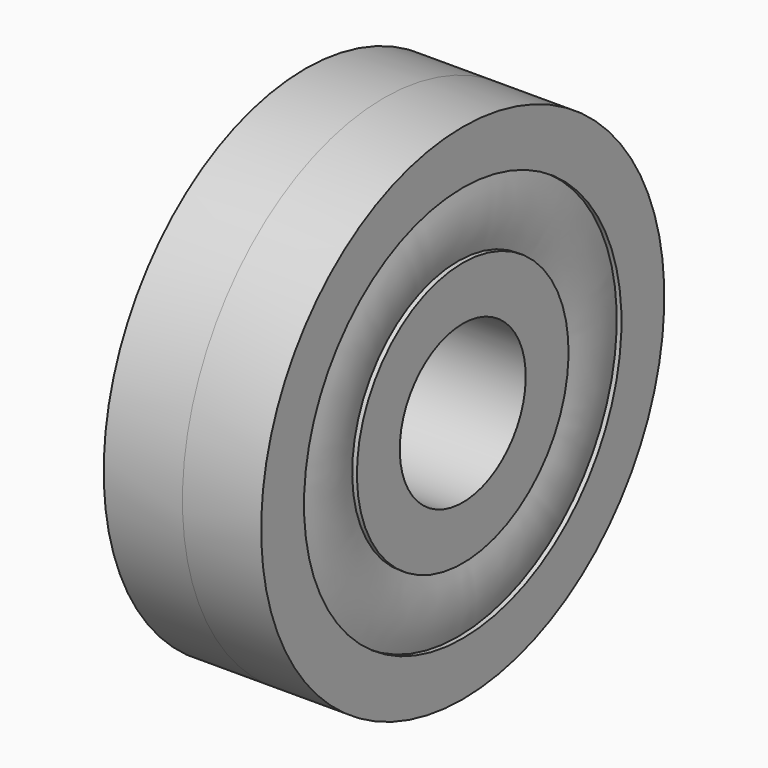
from build123d import *


with BuildPart() as f1:
    # F0 (on Front) → F1 (revolve)
    with BuildSketch(Plane.XZ):
        with BuildLine():
            Line((-2.5, 2.5), (0, 2.5))
            Line((0, 2.5), (0, 8))
            Line((0, 8), (-2.5, 8))
            Line((-2.5, 8), (-2.5, 6.3))
            Line((-2.5, 6.3), (-2.35, 6.3))
            ThreePointArc((-2.35, 6.3), (-2.5, 5.25), (-2.35, 4.2))
            Line((-2.35, 4.2), (-2.5, 4.2))
            Line((-2.5, 4.2), (-2.5, 2.5))
        make_face()
    revolve(axis=Axis((4.185853, 0, 0), (1, 0, 0)))

    # F2: F1 across plane


with BuildPart() as f1_1:
    add(f1.part)
    add(f1.part.mirror(Plane.YZ))


solid = f1_1.part
